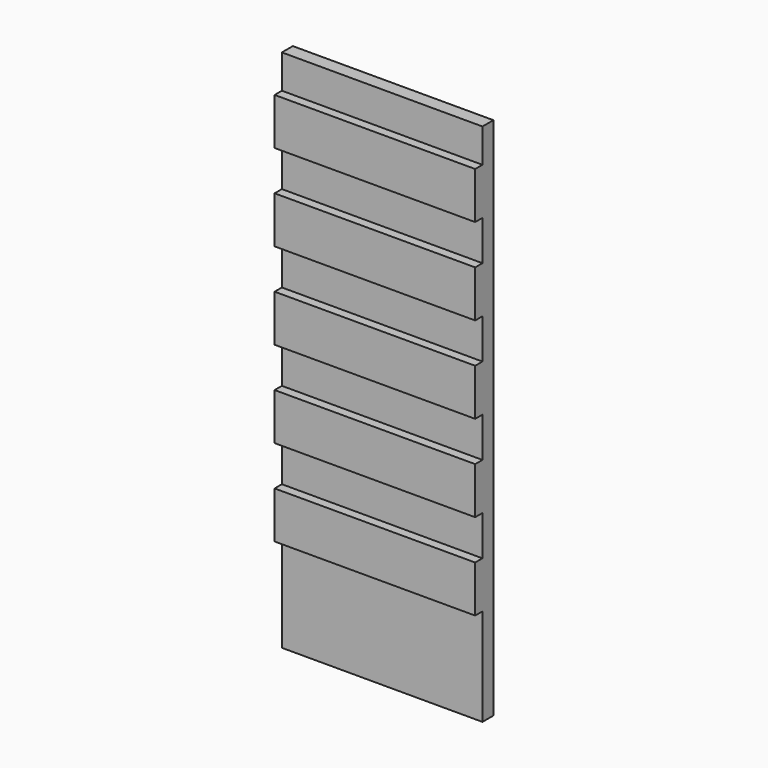
from build123d import *

# Parameters (mm, degrees)
F0_W     = 44
F0_H     = 115
F1_DEPTH = 5
F5_W     = 2
F5_H     = 7.4
F6_DEPTH = 44.001
F7_W     = 44
F7_H     = 8.75
F7_H_2   = 21.35
F8_DEPTH = 2


with BuildPart() as f1:
    # F0 (on Front) → F1 (new body)
    with BuildSketch(Plane.XZ):
        Rectangle(F0_W, F0_H)
    extrude(amount=F1_DEPTH)

    # F5 (on face) → F6 (cut, through all)
    with BuildSketch(Plane.YZ.offset(22)):
        with Locations((-4, 53.8)):
            Rectangle(F5_W, F5_H)
    extrude(amount=-F6_DEPTH, mode=Mode.SUBTRACT)

    # F7 (on face) → F8 (cut)
    with BuildSketch(Plane.XZ.offset(5)):
        with Locations((0, 35.475)):
            Rectangle(F7_W, F7_H)
        with Locations((0, 16.475)):
            Rectangle(F7_W, F7_H)
        with Locations((0, -2.525)):
            Rectangle(F7_W, F7_H)
        with Locations((0, -21.525)):
            Rectangle(F7_W, F7_H)
        with Locations((0, -46.825)):
            Rectangle(F7_W, F7_H_2)
    extrude(amount=-F8_DEPTH, mode=Mode.SUBTRACT)


solid = f1.part
